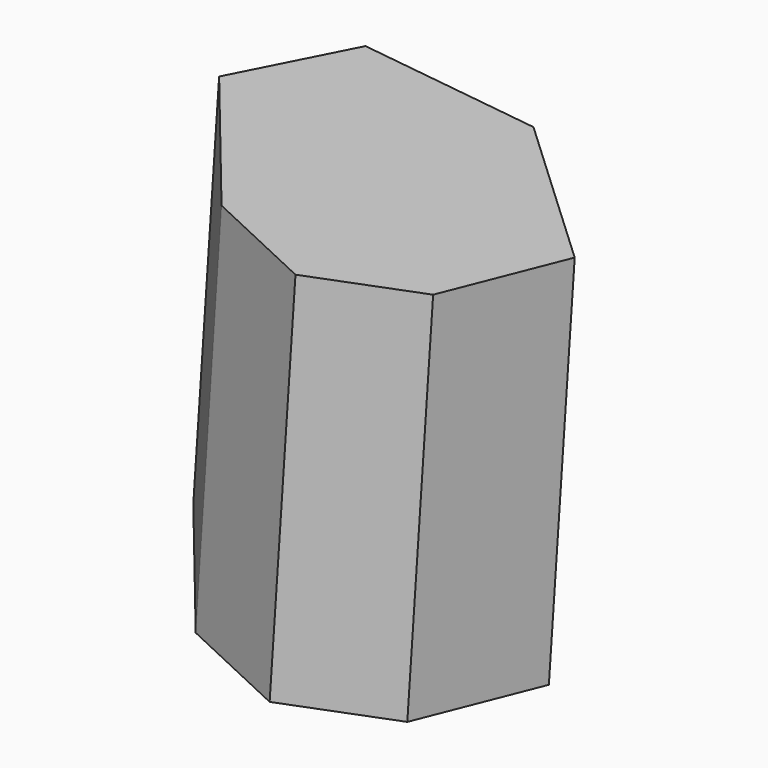
from build123d import *


with BuildPart() as f2:
    # F2: sweep along a path in F1
    with BuildLine(Plane.XZ) as f2_path:
        Line((0, 0), (3.883832, 57.804137))
    # F0 (on Top) → F2 (sweep)
    with BuildSketch(Plane.XY):
        Polygon((-31.438526, 9.866938), (-10.725465, -15.5738), (7.029493, -23.8734), (22.827808, -17.752491), (29.908027, 0), (5.399883, 22.884026), (-22.854045, 26.639991), align=None)
    sweep(path=f2_path.line)


solid = f2.part
